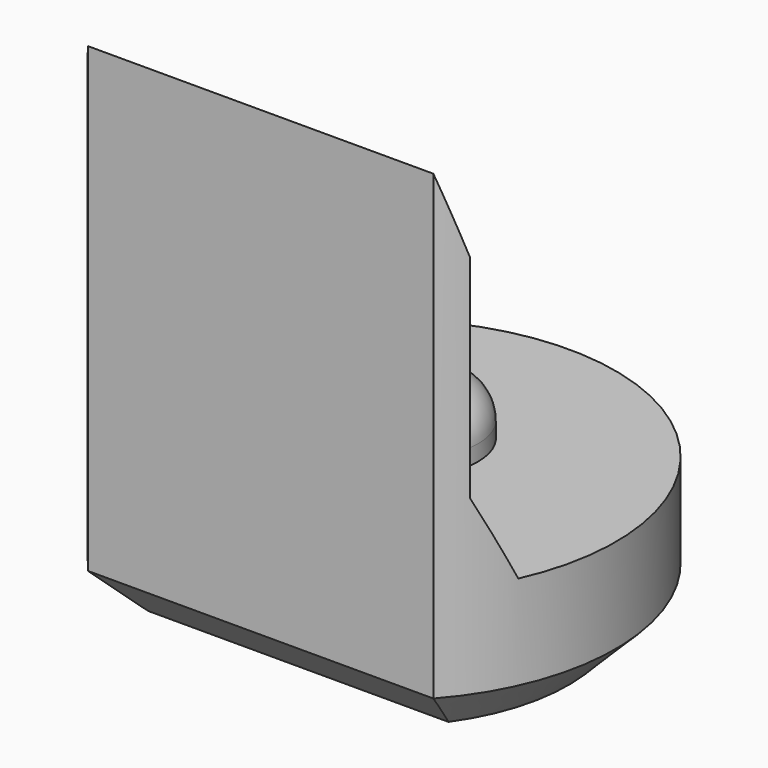
from build123d import *

# Parameters (mm, degrees)
PAD003_DEPTH         = 6.5
POCKET004_DEPTH      = 2.951
POCKET004_DEPTH_BACK = 2.951
SKETCH013_R          = 0.8
PAD006_DEPTH         = 0.7
FILLET_R             = 0.5
CHAMFER004_SIZE      = 0.6


with BuildPart() as part:
    # Sketch004 → Pad003 (new body)
    with BuildSketch(Plane.XY):
        with BuildLine():
            ThreePointArc((2.2, -1.9653244007), (0, 2.95), (-2.2, -1.9653244007))
            Line((-2.2, -1.9653244007), (2.2, -1.9653244007))
        make_face()
    extrude(amount=PAD003_DEPTH)

    # Sketch014 → Pocket004 (cut, two sides)
    with BuildSketch(Plane.YZ) as pocket004_sk:
        Polygon((-1.97, 6.5), (-1.67, 5.5), (-1.67, 2.8), (-1.22, 1.8), (4, 1.8), (4, 6.5), align=None)
    extrude(amount=-POCKET004_DEPTH, mode=Mode.SUBTRACT)
    extrude(pocket004_sk.sketch, amount=POCKET004_DEPTH_BACK, mode=Mode.SUBTRACT)

    # Sketch013 (on Face7 of Pocket004) → Pad006 (join)
    with BuildSketch(Plane.XY.offset(1.8)):
        with Locations((0, 0.5)):
            Circle(SKETCH013_R)
    extrude(amount=PAD006_DEPTH)

    # Fillet
    fillet_edges = [part.edges().sort_by_distance(p)[0] for p in [
        (-0.8, 0.5, 2.5),
    ]]
    fillet(fillet_edges, radius=FILLET_R)

    # Chamfer004
    chamfer004_edges = [part.edges().sort_by_distance(p)[0] for p in [
        (0, 2.95, 0),
        (0, -1.965324, 0),
    ]]
    chamfer(chamfer004_edges, length=CHAMFER004_SIZE)


with BuildPart() as part_1:
    # Body034 placement: moved
    add(part.part.moved(Location((0, 90, 0))))


solid = part_1.part
